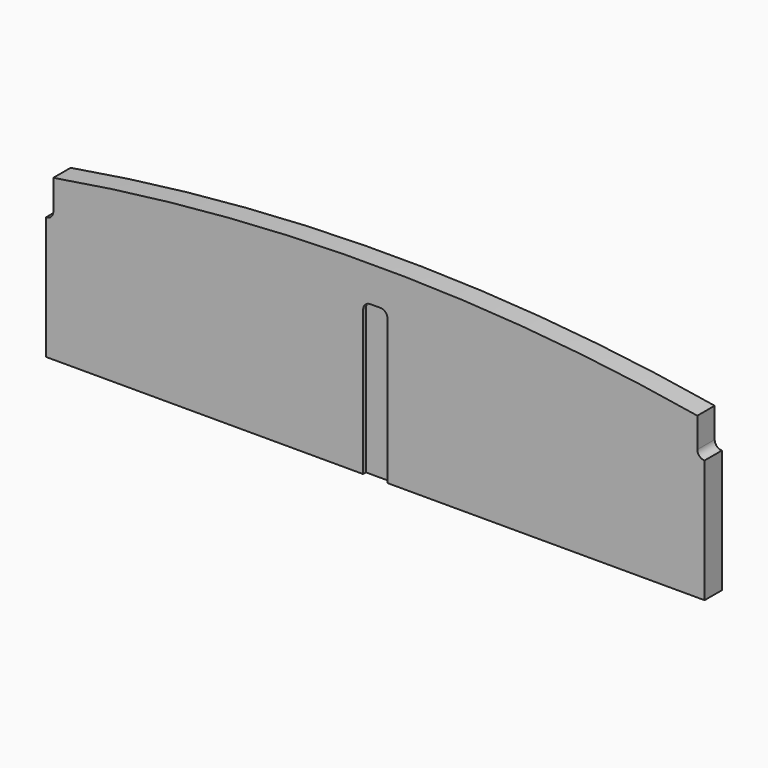
from build123d import *

# Parameters (mm, degrees)
F1_DEPTH = 9.50849
F3_DEPTH = 3.175
F5_DEPTH = 3.175


with BuildPart() as f1:
    # F0 (on Front) → F1 (new body, symmetric)
    with BuildSketch(Plane.XZ):
        with BuildLine():
            Line((-292.100635, -70.246875), (285.750635, -70.246875))
            Line((285.750635, -70.246875), (285.750635, 37.703125))
            ThreePointArc((285.750635, 37.703125), (281.2605069395, 39.5629969395), (279.400635, 44.053125))
            Line((279.400635, 44.053125), (279.400635, 70.246875))
            ThreePointArc((279.400635, 70.246875), (-3.175, 94.3266404561), (-285.750635, 70.246875))
            Line((-285.750635, 70.246875), (-285.750635, 44.053125))
            ThreePointArc((-285.750635, 44.053125), (-287.6105069395, 39.5629969395), (-292.100635, 37.703125))
            Line((-292.100635, 37.703125), (-292.100635, -70.246875))
        make_face()
    extrude(amount=F1_DEPTH, both=True)

    # F2 (on face) → F3 (cut)
    with BuildSketch(Plane.XZ.offset(9.50849)):
        with BuildLine():
            Line((1.190625, 63.103125), (-7.540625, 63.103125))
            ThreePointArc((-7.540625, 63.103125), (-12.0307530605, 61.2432530605), (-13.890625, 56.753125))
            Line((-13.890625, 56.753125), (-13.890625, -70.246875))
            Line((-13.890625, -70.246875), (7.540625, -70.246875))
            Line((7.540625, -70.246875), (7.540625, 56.753125))
            ThreePointArc((7.540625, 56.753125), (5.6807530605, 61.2432530605), (1.190625, 63.103125))
        make_face()
    extrude(amount=-F3_DEPTH, mode=Mode.SUBTRACT)

    # F4 (on face) → F5 (cut)
    with BuildSketch(Plane(origin=(0, 9.50849, 0), x_dir=(-1, 0, 0), z_dir=(0, 1, 0))):
        with BuildLine():
            Line((-7.540625, 56.753125), (-7.540625, -70.246875))
            Line((-7.540625, -70.246875), (13.890625, -70.246875))
            Line((13.890625, -70.246875), (13.890625, 56.753125))
            ThreePointArc((13.890625, 56.753125), (12.0307530605, 61.2432530605), (7.540625, 63.103125))
            Line((7.540625, 63.103125), (-1.190625, 63.103125))
            ThreePointArc((-1.190625, 63.103125), (-5.6807530605, 61.2432530605), (-7.540625, 56.753125))
        make_face()
    extrude(amount=-F5_DEPTH, mode=Mode.SUBTRACT)


solid = f1.part
